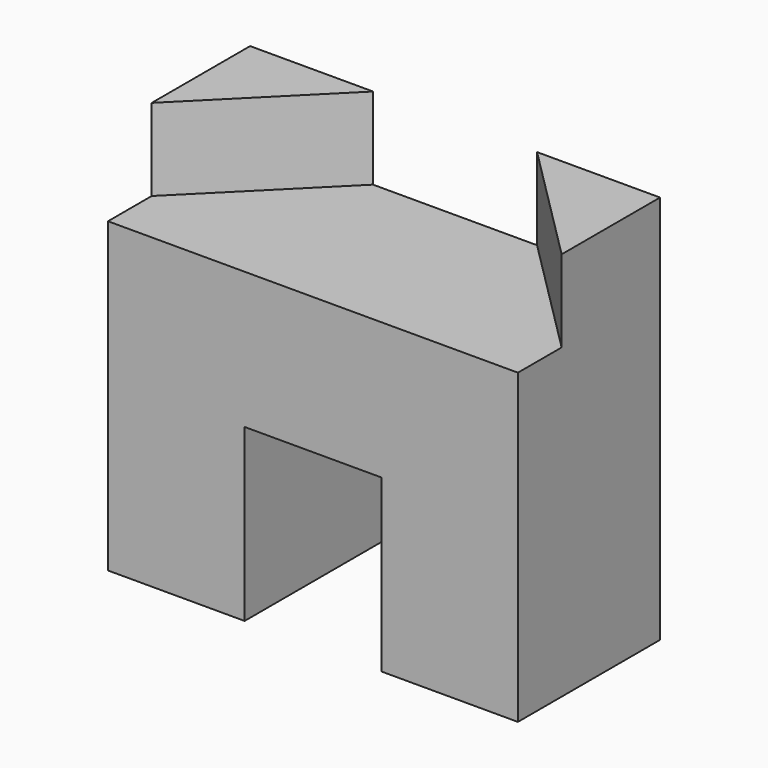
from build123d import *

# Parameters (mm, degrees)
F1_DEPTH = 260
F3_DEPTH = 120


with BuildPart() as f1:
    # F0 (on Front) → F1 (new body)
    with BuildSketch(Plane.XZ):
        Polygon((300, 225), (-300, 225), (-300, -225), (-100, -225), (-100, 25), (100, 25), (100, -225), (300, -225), align=None)
    extrude(amount=F1_DEPTH)

    # F2 (on face) → F3 (join)
    with BuildSketch(Plane.XY.offset(225)):
        Polygon((-300, -180), (-120, 0), (-300, 0), align=None)
        Polygon((300, 0), (120, 0), (300, -180), align=None)
        Polygon((-300, -180), (-120, 0), (-300, 0), align=None)
    extrude(amount=F3_DEPTH)


solid = f1.part
